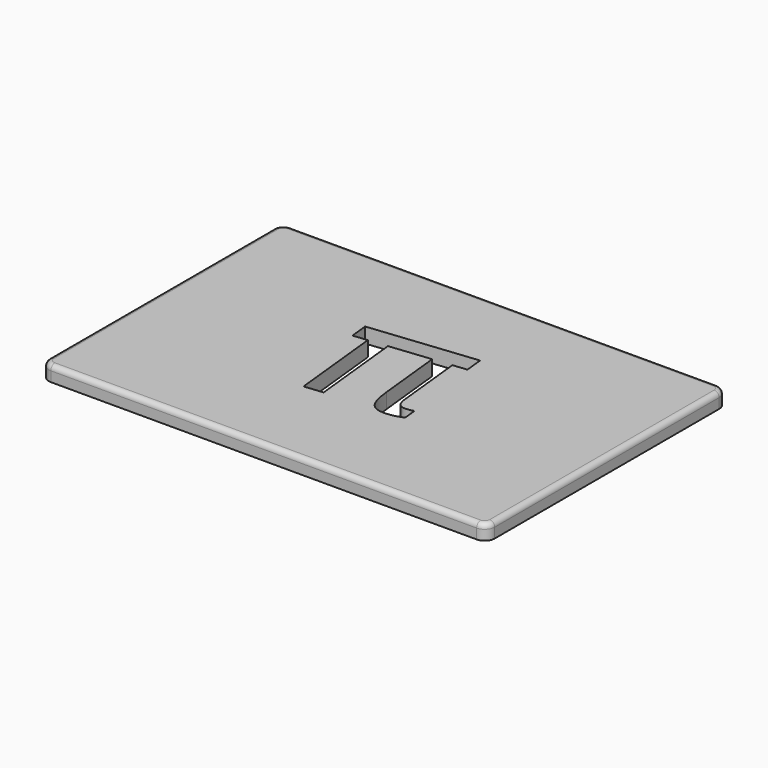
from build123d import *

# Parameters (mm, degrees)
EXTRUDE_DEPTH           = 10
EXTRUDE_PLACEMENT_ANGLE = 6.000002
BOX_W                   = 89
BOX_H                   = 60
BOX_DEPTH               = 3
FILLET_R                = 2
FILLET001_R             = 1


with BuildPart() as extrude_body:
    # path3028 → Extrude (new body)
    with BuildSketch(Plane(origin=(15.82339, -281.713038, 0), x_dir=(0, -1, 0), z_dir=(0, 0, -1))):
        with BuildLine():
            add(Edge.make_bspline(
                [(-11.499453, 10.933906), (-11.499453, -10.358437)],
                knots=[0, 0, 75.445312, 75.445312], degree=1))
            add(Edge.make_bspline(
                [(-11.499453, -10.358437), (-7.848203, -10.358437)],
                knots=[0, 0, 12.9375, 12.9375], degree=1))
            add(Edge.make_bspline(
                [(-7.848203, -10.358437), (-7.848203, -7.560469)],
                knots=[0, 0, 9.914062, 9.914062], degree=1))
            add(Edge.make_bspline(
                [(-7.848203, -7.560469), (5.804294, -7.560469)],
                knots=[0, 0, 48.37499, 48.37499], degree=1))
            add(Edge.make_bspline(
                [(5.804294, -7.560469), (6.756794, -7.560449), (7.44471, -7.719198), (7.868044, -8.036719)],
                knots=[0, 0, 0, 0, 1, 1, 1, 1], degree=3))
            add(Edge.make_bspline(
                [(7.868044, -8.036719), (8.278141, -8.367427), (8.483203, -8.896593), (8.483203, -9.624219)],
                knots=[0, 0, 0, 0, 1, 1, 1, 1], degree=3))
            add(Edge.make_bspline(
                [(8.483203, -9.624219), (8.483203, -9.822634), (8.469939, -10.067373), (8.443523, -10.358437)],
                knots=[0, 0, 0, 0, 1, 1, 1, 1], degree=3))
            add(Edge.make_bspline(
                [(8.443523, -10.358437), (8.403843, -10.649456), (8.37737, -10.841279), (8.364134, -10.933906)],
                knots=[0, 0, 0, 0, 1, 1, 1, 1], degree=3))
            add(Edge.make_bspline(
                [(8.364134, -10.933906), (11.003363, -10.933906)],
                knots=[0, 0, 9.3516, 9.3516], degree=1))
            add(Edge.make_bspline(
                [(11.003363, -10.933906), (11.175349, -10.470863), (11.301023, -9.994613), (11.380384, -9.505156)],
                knots=[0, 0, 0, 0, 1, 1, 1, 1], degree=3))
            add(Edge.make_bspline(
                [(11.380384, -9.505156), (11.459773, -9.015656), (11.499453, -8.526177), (11.499453, -8.036719)],
                knots=[0, 0, 0, 0, 1, 1, 1, 1], degree=3))
            add(Edge.make_bspline(
                [(11.499453, -8.036719), (11.499453, -6.4492), (11.069516, -5.35118), (10.209613, -4.742656)],
                knots=[0, 0, 0, 0, 1, 1, 1, 1], degree=3))
            add(Edge.make_bspline(
                [(10.209613, -4.742656), (9.336474, -4.134098), (7.735766, -3.829827), (5.407433, -3.829844)],
                knots=[0, 0, 0, 0, 1, 1, 1, 1], degree=3))
            add(Edge.make_bspline(
                [(5.407433, -3.829844), (-7.848203, -3.829844)],
                knots=[0, 0, 46.96879, 46.96879], degree=1))
            add(Edge.make_bspline(
                [(-7.848203, -3.829844), (-7.848203, 4.365625)],
                knots=[0, 0, 29.039063, 29.039063], degree=1))
            add(Edge.make_bspline(
                [(-7.848203, 4.365625), (10.725544, 4.365625)],
                knots=[0, 0, 65.81249, 65.81249], degree=1))
            add(Edge.make_bspline(
                [(10.725544, 4.365625), (10.725544, 8.09625)],
                knots=[0, 0, 13.21875, 13.21875], degree=1))
            add(Edge.make_bspline(
                [(10.725544, 8.09625), (-7.848203, 8.09625)],
                knots=[0, 0, 65.81249, 65.81249], degree=1))
            add(Edge.make_bspline(
                [(-7.848203, 8.09625), (-7.848203, 10.933906)],
                knots=[0, 0, 10.054687, 10.054687], degree=1))
            add(Edge.make_bspline(
                [(-7.848203, 10.933906), (-11.499453, 10.933906)],
                knots=[0, 0, 12.9375, 12.9375], degree=1))
        make_face()
    extrude(amount=-EXTRUDE_DEPTH)


with BuildPart() as extrude_body_1:
    # Extrude placement: moved
    add(extrude_body.part.moved(Location((-1, 309, -1))).rotate(Axis((-1, 309, -1), (0, 0, 1)), EXTRUDE_PLACEMENT_ANGLE))


with BuildPart() as fillet001:
    # Box → Box (new body)
    with BuildSketch(Plane.XY):
        with Locations((44.5, 30)):
            Rectangle(BOX_W, BOX_H)
    extrude(amount=BOX_DEPTH)

    # Fillet
    fillet_edges = [fillet001.edges().sort_by_distance(p)[0] for p in [
        (0, 0, 1.5),
        (0, 60, 1.5),
        (89, 0, 1.5),
        (89, 60, 1.5),
    ]]
    fillet(fillet_edges, radius=FILLET_R)

    # Cut: cut Extrude body
    add(extrude_body_1.part, mode=Mode.SUBTRACT)

    # Fillet001
    fillet001_edges = [fillet001.edges().sort_by_distance(p)[0] for p in [
        (0.585786, 0.585786, 3),
        (44.5, 0, 3),
        (0, 30, 3),
        (88.414214, 0.585786, 3),
        (89, 30, 3),
        (88.414214, 59.414214, 3),
        (44.5, 60, 3),
        (0.585786, 59.414214, 3),
    ]]
    fillet(fillet001_edges, radius=FILLET001_R)


solid = fillet001.part
